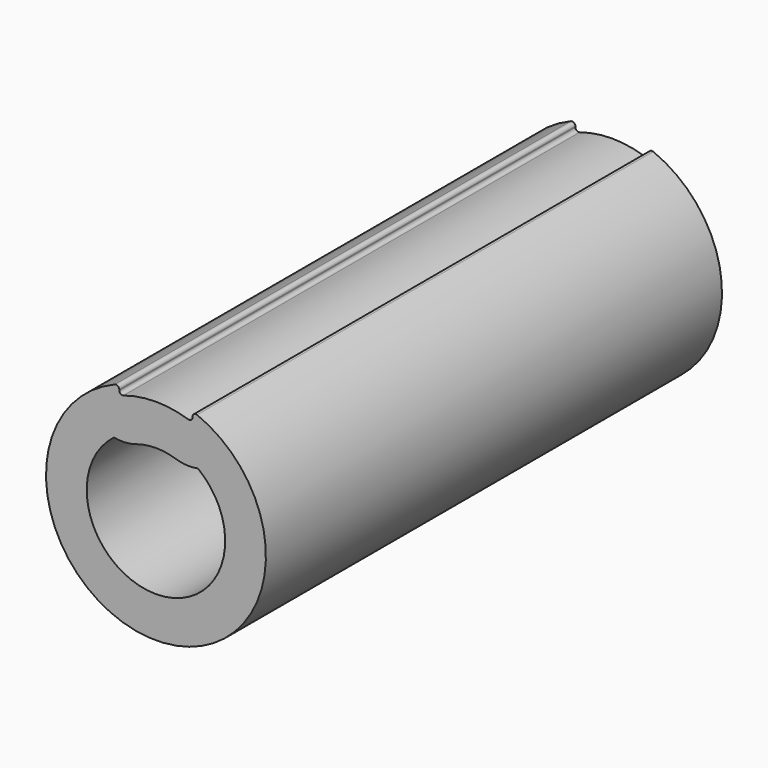
from build123d import *

# Parameters (mm, degrees)
F0_R     = 17.145
F0_R_2   = 9.0724925833
F1_DEPTH = 88.9
F2_DEPTH = 25.4
F4_DEPTH = 88.901
F5_R     = 0.508
F7_DEPTH = 50.8


with BuildPart() as f1:
    # F0 (on Front) → F1 (new body)
    with BuildSketch(Plane.XZ):
        Circle(F0_R)
        Circle(F0_R_2, mode=Mode.SUBTRACT)
        Circle(F0_R_2)
    extrude(amount=F1_DEPTH)

    # F0 (on Front) → F2 (cut)
    with BuildSketch(Plane.XZ):
        Circle(F0_R_2)
    extrude(amount=F2_DEPTH, mode=Mode.SUBTRACT)

    # F3 (on face) → F4 (cut, through all)
    with BuildSketch(Plane.XZ.offset(88.9)):
        with BuildLine():
            ThreePointArc((-5.715, 14.5918745599), (0, 15.621), (5.715, 14.5918745599))
            Line((5.715, 14.5918745599), (5.715, 16.1644610179))
            ThreePointArc((5.715, 16.1644610179), (2.8992534253, 16.8980873053), (0, 17.145))
            ThreePointArc((0, 17.145), (-2.8992534253, 16.8980873053), (-5.715, 16.1644610179))
            Line((-5.715, 16.1644610179), (-5.715, 14.5918745599))
        make_face()
    extrude(amount=-F4_DEPTH, mode=Mode.SUBTRACT)

    # F5
    f5_edges = [f1.edges().sort_by_distance(p)[0] for p in [
        (-5.715, -44.45, 16.164461),
        (5.715, -44.45, 16.164461),
        (-5.715, -44.45, 14.591875),
        (5.715, -44.45, 14.591875),
    ]]
    fillet(f5_edges, radius=F5_R)

    # F6 (on face) → F7 (cut)
    with BuildSketch(Plane.XZ.offset(88.9)):
        with BuildLine():
            ThreePointArc((-3.0928797021, 8.7823797249), (-4.8083158044, 8.4599845105), (-6.5495779578, 8.5810869809))
            ThreePointArc((-6.5495779578, 8.5810869809), (0, -10.7950000092), (6.5495779578, 8.5810869809))
            ThreePointArc((6.5495779578, 8.5810869809), (4.8083158044, 8.4599845105), (3.0928797021, 8.7823797249))
            ThreePointArc((3.0928797021, 8.7823797249), (0, 9.2710000092), (-3.0928797021, 8.7823797249))
        make_face()
    extrude(amount=-F7_DEPTH, mode=Mode.SUBTRACT)


solid = f1.part
